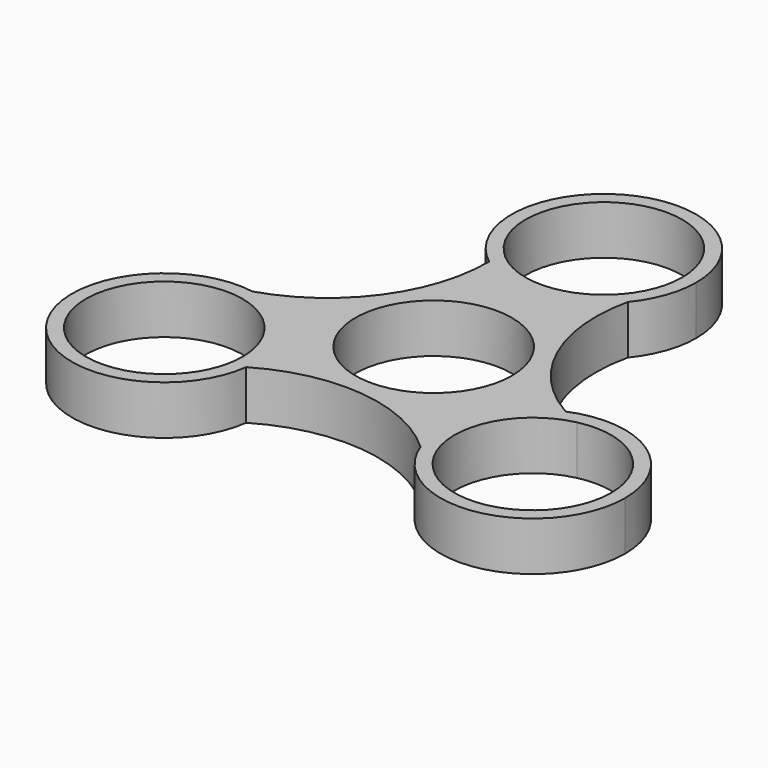
from build123d import *

# Parameters (mm, degrees)
F0_R     = 13.2
F0_R_2   = 11.2
F1_DEPTH = 7


with BuildPart() as f1:
    # F0 (on Top) → F1 (new body)
    with BuildSketch(Plane.XY):
        with BuildLine():
            ThreePointArc((10.1692154811, 22.0102559418), (1.4852354636, 17.3099610443), (-8.0298787142, 19.9494464583))
            ThreePointArc((-8.0298787142, 19.9494464583), (-12.4131983481, 6.2015591877), (-24.1460485299, -2.1983290277))
            ThreePointArc((-24.1460485299, -2.1983290277), (-16.2669107759, -6.6939612617), (-13.1498077104, -15.2130685747))
            ThreePointArc((-13.1498077104, -15.2130685747), (-13.1778325493, -16.0727605866), (-13.2617880672, -16.928802185))
            ThreePointArc((-13.2617880672, -16.928802185), (0.8358913745, -13.8509247055), (13.9768330489, -19.8119269141))
            ThreePointArc((13.9768330489, -19.8119269141), (14.2482482711, -9.9412321642), (21.2916667814, -3.0206442734))
            ThreePointArc((21.2916667814, -3.0206442734), (11.5773069737, 7.6493655179), (10.1692154811, 22.0102559418))
        make_face()
        Circle(F0_R, mode=Mode.SUBTRACT)
        with BuildLine():
            ThreePointArc((-13.1498077104, -15.2130685747), (-16.2669107759, -6.6939612617), (-24.1460485299, -2.1983290277))
            ThreePointArc((-24.1460485299, -2.1983290277), (-36.966131686, -23.0574082693), (-13.2617880672, -16.928802185))
            ThreePointArc((-13.2617880672, -16.928802185), (-13.1778325493, -16.0727605866), (-13.1498077104, -15.2130685747))
        make_face()
        with BuildLine():
            ThreePointArc((-15.1498077104, -15.2130685747), (-15.279165847, -16.9103866751), (-15.6642521272, -18.5684972922))
            ThreePointArc((-15.6642521272, -18.5684972922), (-37.4204495737, -13.5157504742), (-15.1498077104, -15.2130685747))
        make_face(mode=Mode.SUBTRACT)
        with BuildLine():
            ThreePointArc((39.5498077104, -15.2130685747), (33.6803104127, -4.2356494731), (21.2916667814, -3.0206442734))
            ThreePointArc((21.2916667814, -3.0206442734), (14.2482482711, -9.9412321642), (13.9768330489, -19.8119269141))
            ThreePointArc((13.9768330489, -19.8119269141), (28.6861225937, -28.2046671201), (39.5498077104, -15.2130685747))
        make_face()
        with BuildLine():
            ThreePointArc((37.5498077104, -15.2130685747), (19.3445661854, -23.9518666143), (23.9129164288, -4.2813916273))
            ThreePointArc((23.9129164288, -4.2813916273), (33.3550492353, -6.4742705351), (37.5498077104, -15.2130685747))
        make_face(mode=Mode.SUBTRACT)
        Circle(F0_R)
        Circle(F0_R_2, mode=Mode.SUBTRACT)
        with BuildLine():
            ThreePointArc((13.2, 30.4261371493), (-5.8414724587, 42.2632482629), (-8.0298787142, 19.9494464583))
            ThreePointArc((-8.0298787142, 19.9494464583), (1.4852354636, 17.3099610443), (10.1692154811, 22.0102559418))
            ThreePointArc((10.1692154811, 22.0102559418), (12.4192118178, 25.9536459168), (13.2, 30.4261371493))
        make_face()
        with BuildLine():
            ThreePointArc((-8.2486643016, 22.8498889195), (-4.0654003383, 40.8622532894), (11.2, 30.4261371493))
            ThreePointArc((11.2, 30.4261371493), (4.0654003383, 19.9900210093), (-8.2486643016, 22.8498889195))
        make_face(mode=Mode.SUBTRACT)
    extrude(amount=F1_DEPTH)


solid = f1.part
